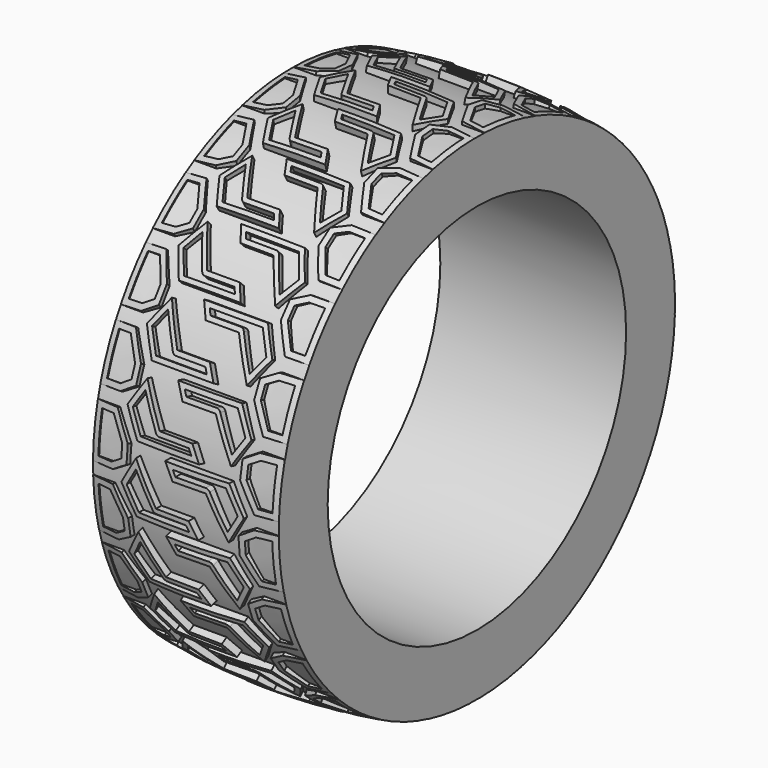
from build123d import *

# Parameters (mm, degrees)
SKETCH_R           = 33.5
SKETCH_R_2         = 25.25
PAD_DEPTH          = 12.575
PAD_DEPTH_BACK     = 12.575
PAD001_DEPTH       = 2
PAD001_DEPTH_BACK  = 3
POLARPATTERN_COUNT = 24


with BuildPart() as part:
    # Sketch → Pad (new body, two sides)
    with BuildSketch(Plane.YZ) as pad_sk:
        Circle(SKETCH_R)
        Circle(SKETCH_R_2, mode=Mode.SUBTRACT)
    extrude(amount=PAD_DEPTH)
    extrude(pad_sk.sketch, amount=-PAD_DEPTH_BACK)

    # Sketch002 (on DatumPlane) → Pad001 (join, two sides)
    with BuildSketch(Plane.XY.offset(33.5)) as pad001_sk:
        Polygon((2.234401, -4), (-6.265599, -4), (-8.286325, -0.5), (-6.265599, 3), (-3.378848, -2), (1.079701, -2), align=None)
        with BuildLine():
            Line((-5.885599, -3.36), (-7.515599, -0.536757))
            Line((-7.515599, -0.536757), (-6.210155, 1.724339))
            Line((-6.210155, 1.724339), (-3.875155, -2.32))
            ThreePointArc((-3.875155, -2.32), (-3.640898, -2.554256), (-3.320898, -2.64))
            Line((-3.320898, -2.64), (0.718709, -2.64))
            Line((0.718709, -2.64), (1.134401, -3.36))
            Line((1.134401, -3.36), (-5.885599, -3.36))
        make_face(mode=Mode.SUBTRACT)
        Polygon((-12.575, -1.267949), (-9.575, -1.267949), (-7.575, -4.732051), (-7.575, -7.113249), (-9.575, -8.267949), (-12.575, -8.267949), align=None)
        Polygon((-8.365, -6.658112), (-9.785, -7.477949), (-11.775, -7.477949), (-11.775, -2.057949), (-10.025, -2.057949), (-8.365, -4.933154), align=None, mode=Mode.SUBTRACT)
        Polygon((-2.234401, 4), (6.265599, 4), (8.286325, 0.5), (6.265599, -3), (3.378848, 2), (-1.079701, 2), align=None)
        with BuildLine():
            Line((5.885599, 3.36), (7.515599, 0.536757))
            Line((7.515599, 0.536757), (6.210155, -1.724339))
            Line((6.210155, -1.724339), (3.875155, 2.32))
            ThreePointArc((3.875155, 2.32), (3.640898, 2.554256), (3.320898, 2.64))
            Line((3.320898, 2.64), (-0.718709, 2.64))
            Line((-0.718709, 2.64), (-1.134401, 3.36))
            Line((-1.134401, 3.36), (5.885599, 3.36))
        make_face(mode=Mode.SUBTRACT)
        Polygon((12.575, 1.267949), (9.575, 1.267949), (7.575, 4.732051), (7.575, 7.113249), (9.575, 8.267949), (12.575, 8.267949), align=None)
        Polygon((8.365, 6.658112), (9.785, 7.477949), (11.775, 7.477949), (11.775, 2.057949), (10.025, 2.057949), (8.365, 4.933154), align=None, mode=Mode.SUBTRACT)
    pad001 = extrude(amount=PAD001_DEPTH) + extrude(pad001_sk.sketch, amount=-PAD001_DEPTH_BACK)

    # PolarPattern: Pad001 ×24 about axis
    polarpattern_axis = Axis((0, 0, 0), (1, 0, 0))
    for i in range(1, POLARPATTERN_COUNT):
        add(pad001.rotate(polarpattern_axis, i * 360 / POLARPATTERN_COUNT))

    # Sketch003 → Groove (revolve, cut)
    with BuildSketch(Plane.XZ):
        with BuildLine():
            ThreePointArc((12.75, 33.5), (0, 34.5), (-12.75, 33.5))
            Line((-12.75, 33.5), (-12.75, 37.5))
            Line((-12.75, 37.5), (12.75, 37.5))
            Line((12.75, 37.5), (12.75, 33.5))
        make_face()
    revolve(axis=Axis((0, 0, 0), (1, 0, 0)), mode=Mode.SUBTRACT)


solid = part.part
